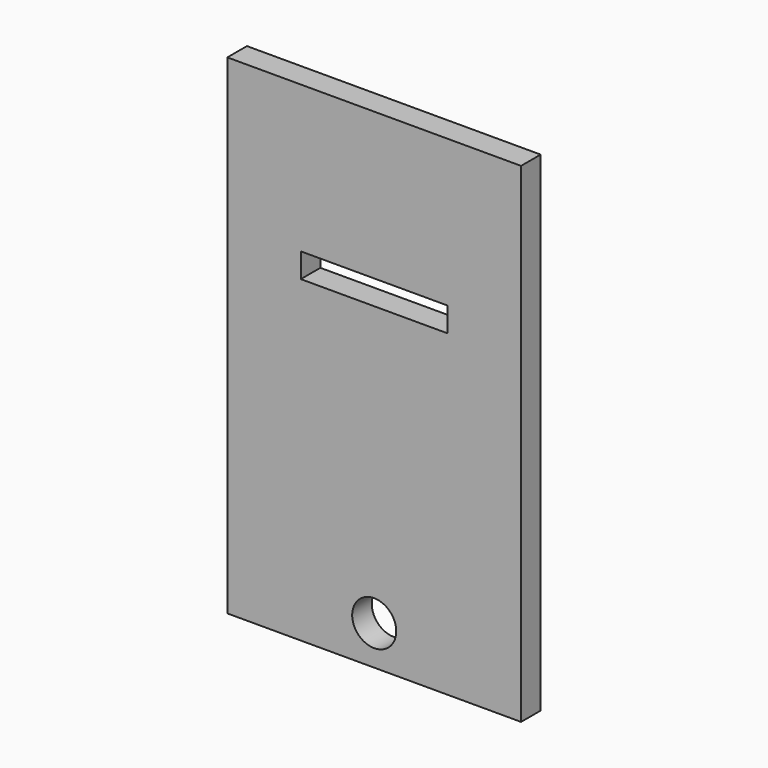
from build123d import *

# Parameters (mm, degrees)
F0_W     = 76.2
F0_H     = 127
F0_R     = 5.715
F0_W_2   = 38.1
F0_H_2   = 6.35
F1_DEPTH = 6.35


with BuildPart() as f1:
    # F0 (on Front) → F1 (new body)
    with BuildSketch(Plane.XZ):
        Rectangle(F0_W, F0_H)
        with Locations((0, -53.34)):
            Circle(F0_R, mode=Mode.SUBTRACT)
        with Locations((0, 22.225)):
            Rectangle(F0_W_2, F0_H_2, mode=Mode.SUBTRACT)
    extrude(amount=F1_DEPTH)


solid = f1.part
